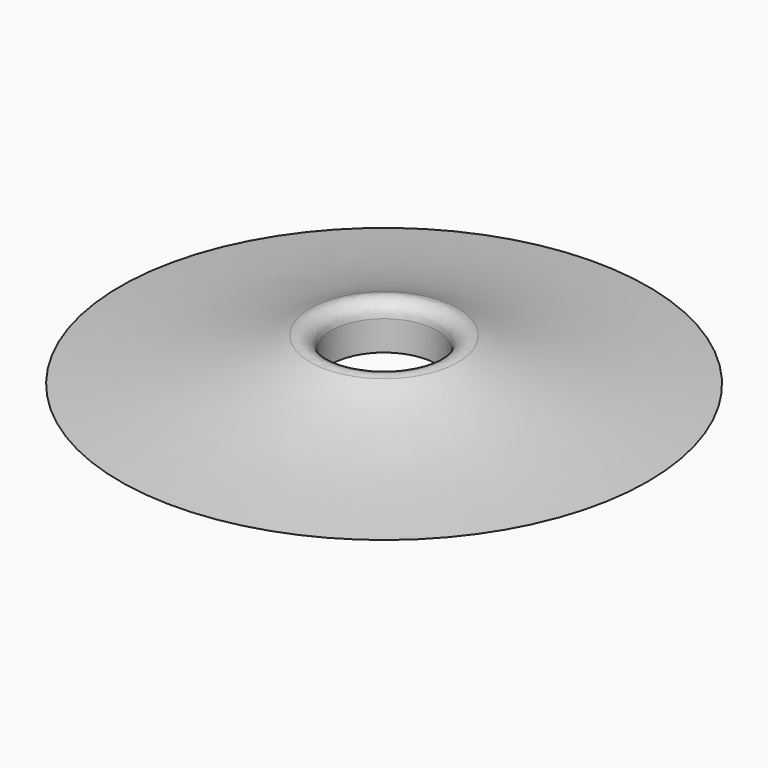
from build123d import *

# Parameters (mm, degrees)
F2_R     = 4.6963354408
F3_DEPTH = 25.4
F4_R     = 1.27


with BuildPart() as f1:
    # F0 (on Front) → F1 (revolve)
    with BuildSketch(Plane.XZ):
        with BuildLine():
            Line((0, 7.8808171675), (0, 0))
            Line((0, 0), (23.3285166323, 0))
            add(Edge.make_bspline(
                [(0, 7.8808171675), (6.3383360393, 2.8902275953), (11.6642583162, 1.2399421539), (23.3285166323, 0)],
                knots=[0, 0, 0, 0, 24.6237074278, 24.6237074278, 24.6237074278, 24.6237074278], degree=3))
        make_face()
    revolve(axis=Axis((0, 0, 3.9404085837), (0, 0, 1)))

    # F2 (on Top) → F3 (cut)
    with BuildSketch(Plane.XY):
        Circle(F2_R)
    extrude(amount=F3_DEPTH, mode=Mode.SUBTRACT)

    # F4
    f4_edges = [f1.edges().sort_by_distance(p)[0] for p in [
        (-4.696335, 0, 4.708633),
    ]]
    fillet(f4_edges, radius=F4_R)


solid = f1.part
